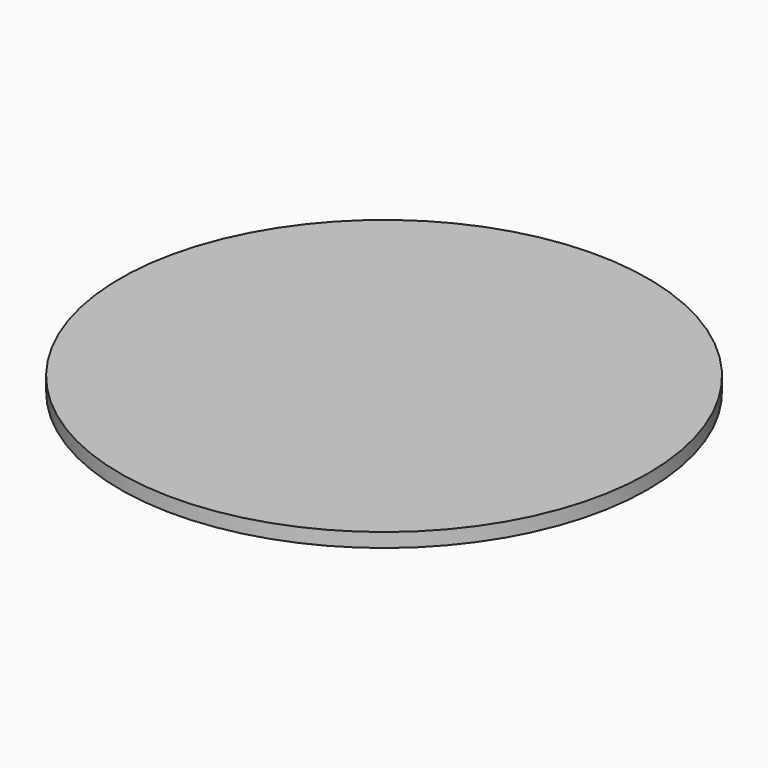
from build123d import *

# Parameters (mm, degrees)
F0_R     = 37.5
F1_DEPTH = 6
F2_SIZE2 = 24
F2_SIZE  = 4
F3_R     = 10
F4_DEPTH = 8
F5_SIZE  = 1


with BuildPart() as f1:
    # F0 (on Top) → F1 (new body)
    with BuildSketch(Plane.XY):
        Circle(F0_R)
    extrude(amount=F1_DEPTH)

    # F2
    f2_edges = [f1.edges().sort_by_distance(p)[0] for p in [
        (-37.5, 0, 0),
    ]]
    chamfer(f2_edges, length=F2_SIZE, length2=F2_SIZE2)

    # F3 (on face) → F4 (join)
    with BuildSketch(Plane(origin=(0, 0, 0), x_dir=(1, 0, 0), z_dir=(0, 0, -1))):
        Circle(F3_R)
    extrude(amount=F4_DEPTH)

    # F5
    f5_edges = [f1.edges().sort_by_distance(p)[0] for p in [
        (-10, 0, -8),
    ]]
    chamfer(f5_edges, length=F5_SIZE)


solid = f1.part
